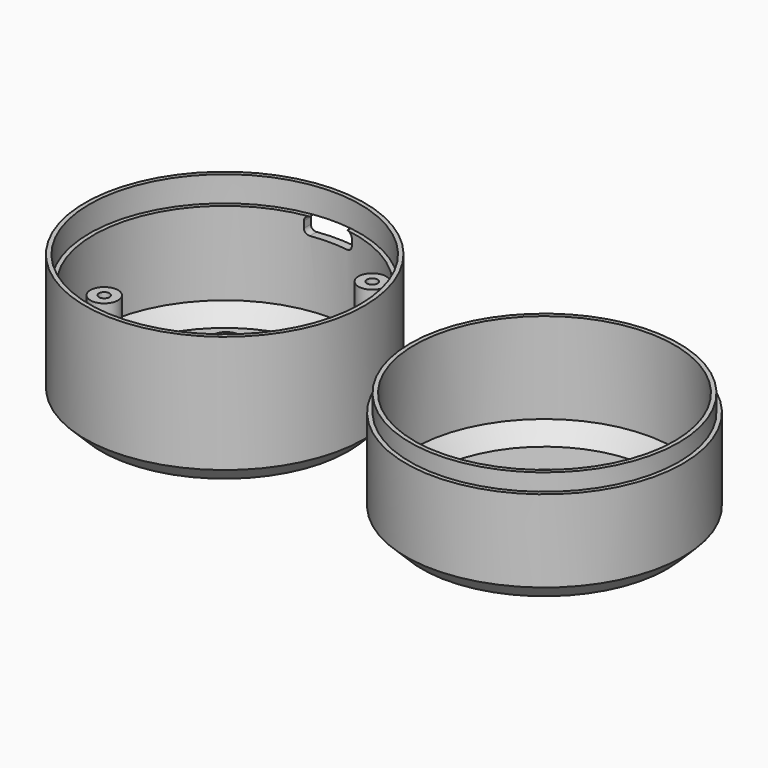
from build123d import *

# Parameters (mm, degrees)
BOX_W             = 9
BOX_H             = 10
BOX_DEPTH         = 3.2
FILLET_R          = 1
CYLINDER007_R     = 1
CYLINDER007_DEPTH = 20.2
CYLINDER004_R     = 2.6
CYLINDER004_DEPTH = 20.2
CYLINDER006_R     = 1
CYLINDER006_DEPTH = 20.2
CYLINDER003_R     = 2.6
CYLINDER003_DEPTH = 20.2
CYLINDER008_R     = 1
CYLINDER008_DEPTH = 20.2
CYLINDER005_R     = 2.6
CYLINDER005_DEPTH = 20.2
CYLINDER002_R     = 25.4
CYLINDER002_DEPTH = 25
CYLINDER001_R     = 24.6
CYLINDER001_DEPTH = 25
CYLINDER_R        = 26.2
CYLINDER_DEPTH    = 25
CHAMFER_SIZE      = 3
CHAMFER001_SIZE   = 3
BOX001_W          = 10
BOX001_H          = 1
BOX001_DEPTH      = 10
CYLINDER013_R     = 2.95
CYLINDER013_DEPTH = 5
CYLINDER012_R     = 4.55
CYLINDER012_DEPTH = 5
CYLINDER011_R     = 24.4
CYLINDER011_DEPTH = 21.6
CYLINDER010_R     = 25.2
CYLINDER010_DEPTH = 21.6
CYLINDER009_R     = 26
CYLINDER009_DEPTH = 18.4
CHAMFER002_SIZE   = 3
CHAMFER003_SIZE   = 3


with BuildPart() as usb:
    # Box → Box (new body)
    with BuildSketch(Plane(origin=(-4.5, 18, 17), x_dir=(1, 0, 0), z_dir=(0, 0, 1))):
        with Locations((4.5, 5)):
            Rectangle(BOX_W, BOX_H)
    extrude(amount=BOX_DEPTH)

    # Fillet
    fillet_edges = [usb.edges().sort_by_distance(p)[0] for p in [
        (-4.5, 23, 20.2),
        (-4.5, 23, 17),
        (4.5, 23, 20.2),
        (4.5, 23, 17),
    ]]
    fillet(fillet_edges, radius=FILLET_R)


with BuildPart() as zylinder007:
    # Cylinder007 → Cylinder007 (new body)
    with BuildSketch(Plane(origin=(-11.43, -13.97, 3), x_dir=(1, 0, 0), z_dir=(0, 0, 1))):
        Circle(CYLINDER007_R)
    extrude(amount=CYLINDER007_DEPTH)


with BuildPart() as cut003:
    # Cylinder004 → Cylinder004 (new body)
    with BuildSketch(Plane(origin=(-11.43, -13.97, 0), x_dir=(1, 0, 0), z_dir=(0, 0, 1))):
        Circle(CYLINDER004_R)
    extrude(amount=CYLINDER004_DEPTH)

    # Cut003: cut Zylinder007
    add(zylinder007.part, mode=Mode.SUBTRACT)


with BuildPart() as zylinder006:
    # Cylinder006 → Cylinder006 (new body)
    with BuildSketch(Plane(origin=(16.51, 13.97, 3), x_dir=(1, 0, 0), z_dir=(0, 0, 1))):
        Circle(CYLINDER006_R)
    extrude(amount=CYLINDER006_DEPTH)


with BuildPart() as cut002:
    # Cylinder003 → Cylinder003 (new body)
    with BuildSketch(Plane(origin=(16.51, 13.97, 0), x_dir=(1, 0, 0), z_dir=(0, 0, 1))):
        Circle(CYLINDER003_R)
    extrude(amount=CYLINDER003_DEPTH)

    # Cut002: cut Zylinder006
    add(zylinder006.part, mode=Mode.SUBTRACT)


with BuildPart() as zylinder008:
    # Cylinder008 → Cylinder008 (new body)
    with BuildSketch(Plane(origin=(11.43, -13.97, 3), x_dir=(1, 0, 0), z_dir=(0, 0, 1))):
        Circle(CYLINDER008_R)
    extrude(amount=CYLINDER008_DEPTH)


with BuildPart() as cut004:
    # Cylinder005 → Cylinder005 (new body)
    with BuildSketch(Plane(origin=(11.43, -13.97, 0), x_dir=(1, 0, 0), z_dir=(0, 0, 1))):
        Circle(CYLINDER005_R)
    extrude(amount=CYLINDER005_DEPTH)

    # Cut004: cut Zylinder008
    add(zylinder008.part, mode=Mode.SUBTRACT)


with BuildPart() as zylinder002:
    # Cylinder002 → Cylinder002 (new body)
    with BuildSketch(Plane.XY.offset(20.2)):
        Circle(CYLINDER002_R)
    extrude(amount=CYLINDER002_DEPTH)


with BuildPart() as zylinder001:
    # Cylinder001 → Cylinder001 (new body)
    with BuildSketch(Plane.XY.offset(1.6)):
        Circle(CYLINDER001_R)
    extrude(amount=CYLINDER001_DEPTH)


with BuildPart() as bottom:
    # Cylinder → Cylinder (new body)
    with BuildSketch(Plane.XY):
        Circle(CYLINDER_R)
    extrude(amount=CYLINDER_DEPTH)

    # Cut: cut Zylinder001
    add(zylinder001.part, mode=Mode.SUBTRACT)

    # Cut001: cut Zylinder002
    add(zylinder002.part, mode=Mode.SUBTRACT)

    # Chamfer
    chamfer_edges = [bottom.edges().sort_by_distance(p)[0] for p in [
        (-24.6, 0, 1.6),
    ]]
    chamfer(chamfer_edges, length=CHAMFER_SIZE)

    # Fusion: union Cut003, Cut002, Cut004
    add(cut003.part)
    add(cut002.part)
    add(cut004.part)

    # Chamfer001
    chamfer001_edges = [bottom.edges().sort_by_distance(p)[0] for p in [
        (-26.2, 0, 0),
    ]]
    chamfer(chamfer001_edges, length=CHAMFER001_SIZE)

    # Cut005: cut USB
    add(usb.part, mode=Mode.SUBTRACT)


with BuildPart() as obj1:
    # Box001 → Box001 (new body)
    with BuildSketch(Plane(origin=(55, -0.5, 1.6), x_dir=(1, 0, 0), z_dir=(0, 0, 1))):
        with Locations((5, 0.5)):
            Rectangle(BOX001_W, BOX001_H)
    extrude(amount=BOX001_DEPTH)


with BuildPart() as zylinder013:
    # Cylinder013 → Cylinder013 (new body)
    with BuildSketch(Plane(origin=(60, 0, 1.6), x_dir=(1, 0, 0), z_dir=(0, 0, 1))):
        Circle(CYLINDER013_R)
    extrude(amount=CYLINDER013_DEPTH)


with BuildPart() as cut008:
    # Cylinder012 → Cylinder012 (new body)
    with BuildSketch(Plane(origin=(60, 0, 1.6), x_dir=(1, 0, 0), z_dir=(0, 0, 1))):
        Circle(CYLINDER012_R)
    extrude(amount=CYLINDER012_DEPTH)

    # Cut007: cut Zylinder013
    add(zylinder013.part, mode=Mode.SUBTRACT)

    # Cut008: cut obj1
    add(obj1.part, mode=Mode.SUBTRACT)


with BuildPart() as zylinder011:
    # Cylinder011 → Cylinder011 (new body)
    with BuildSketch(Plane(origin=(60, 0, 1.6), x_dir=(1, 0, 0), z_dir=(0, 0, 1))):
        Circle(CYLINDER011_R)
    extrude(amount=CYLINDER011_DEPTH)


with BuildPart() as zylinder010:
    # Cylinder010 → Cylinder010 (new body)
    with BuildSketch(Plane(origin=(60, 0, 0), x_dir=(1, 0, 0), z_dir=(0, 0, 1))):
        Circle(CYLINDER010_R)
    extrude(amount=CYLINDER010_DEPTH)


with BuildPart() as top:
    # Cylinder009 → Cylinder009 (new body)
    with BuildSketch(Plane(origin=(60, 0, 0), x_dir=(1, 0, 0), z_dir=(0, 0, 1))):
        Circle(CYLINDER009_R)
    extrude(amount=CYLINDER009_DEPTH)

    # Fusion001: union Zylinder010
    add(zylinder010.part)

    # Cut006: cut Zylinder011
    add(zylinder011.part, mode=Mode.SUBTRACT)

    # Chamfer002
    chamfer002_edges = [top.edges().sort_by_distance(p)[0] for p in [
        (35.6, 0, 1.6),
    ]]
    chamfer(chamfer002_edges, length=CHAMFER002_SIZE)

    # Chamfer003
    chamfer003_edges = [top.edges().sort_by_distance(p)[0] for p in [
        (34, 0, 0),
    ]]
    chamfer(chamfer003_edges, length=CHAMFER003_SIZE)

    # Fusion002: union Cut008
    add(cut008.part)


solid = Compound([bottom.part, top.part])
